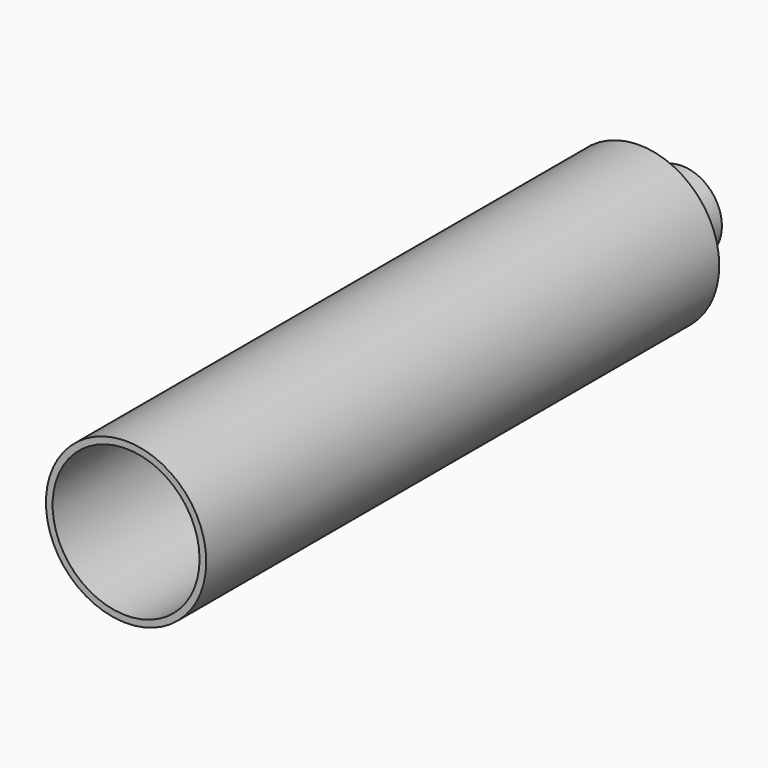
from build123d import *

# Parameters (mm, degrees)
F0_R     = 38.1
F0_R_2   = 34.925
F1_DEPTH = 304.8
F2_DEPTH = 6.35
F3_R     = 19.05
F4_DEPTH = 25.4
F6_D     = 25.4
F6_DEPTH = 38.1


with BuildPart() as f1:
    # F0 (on Front) → F1 (new body)
    with BuildSketch(Plane.XZ):
        Circle(F0_R)
        Circle(F0_R_2, mode=Mode.SUBTRACT)
    extrude(amount=F1_DEPTH)

    # F0 (on Front) → F2 (join)
    with BuildSketch(Plane.XZ):
        Circle(F0_R_2)
    extrude(amount=F2_DEPTH)

    # F3 (on face) → F4 (join)
    with BuildSketch(Plane.XZ):
        Circle(F3_R)
    extrude(amount=-F4_DEPTH)

    # F6
    with Locations(Plane(origin=(0, 25.4, 0), x_dir=(-1, 0, 0), z_dir=(0, 1, 0))):
        with Locations((0, 0)):
            Hole(F6_D / 2, depth=F6_DEPTH)


solid = f1.part
